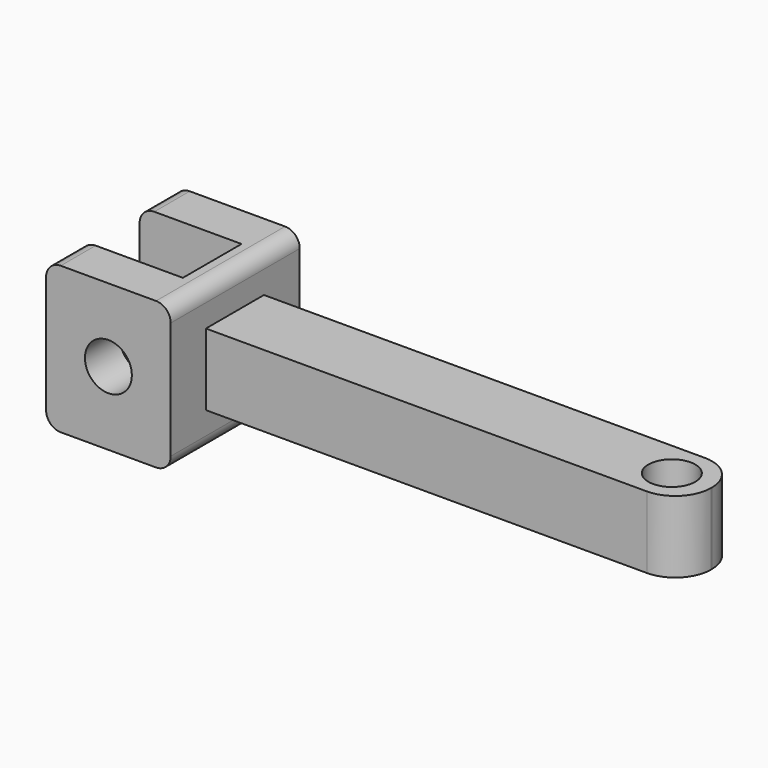
from build123d import *

# Parameters (mm, degrees)
F0_R      = 1.6
F1_DEPTH  = 2.45
F4_DEPTH  = 8
F6_R      = 1.6
F7_DEPTH  = 25
F8_DEPTH  = 11
F9_W      = 7.5
F9_H      = 2.5
F10_DEPTH = 14.29


with BuildPart() as f1:
    # F0 (on Top) → F1 (new body)
    with BuildSketch(Plane.XY):
        with BuildLine():
            Line((-6.325, -2.475), (13.825, -2.475))
            ThreePointArc((13.825, -2.475), (15.5397339444, -1.7647339444), (16.25, -0.05))
            Line((16.25, -0.05), (16.25, 0.05))
            ThreePointArc((16.25, 0.05), (15.5397339444, 1.7647339444), (13.825, 2.475))
            Line((13.825, 2.475), (-6.325, 2.475))
            Line((-6.325, 2.475), (-8.75, 2.475))
            Line((-8.75, 2.475), (-13.825, 2.475))
            Line((-13.825, 2.475), (-16.25, 2.475))
            Line((-16.25, 2.475), (-16.25, -2.475))
            Line((-16.25, -2.475), (-13.825, -2.475))
            Line((-13.825, -2.475), (-6.325, -2.475))
        make_face()
        with Locations((13.55, 0)):
            Circle(F0_R, mode=Mode.SUBTRACT)
    extrude(amount=F1_DEPTH)

    # F2: F1 across plane


with BuildPart() as f1_1:
    add(f1.part)
    add(f1.part.mirror(Plane.XY))

    # F3 (on face) → F4 (join)
    with BuildSketch(Plane.XZ.offset(2.475)):
        with BuildLine():
            Line((-24.75, 0), (-16.25, 0))
            Line((-16.25, 0), (-16.25, 2.45))
            Line((-16.25, 2.45), (-16.25, 4))
            ThreePointArc((-16.25, 4), (-16.5428932188, 4.7071067812), (-17.25, 5))
            Line((-17.25, 5), (-23.75, 5))
            ThreePointArc((-23.75, 5), (-24.4571067812, 4.7071067812), (-24.75, 4))
            Line((-24.75, 4), (-24.75, 0))
        make_face()
    extrude(amount=-F4_DEPTH)

    # F5: F1 across plane


with BuildPart() as f1_2:
    add(f1_1.part)
    add(f1_1.part.mirror(Plane.XY))

    # F6 (on face) → F7 (cut)
    with BuildSketch(Plane.XZ.offset(2.475)):
        with Locations((-20.5, 0)):
            Circle(F6_R)
    extrude(amount=-F7_DEPTH, mode=Mode.SUBTRACT)

    # F8 (add): a face of the model
    f8_faces = [f1_2.faces().sort_by_distance(p)[0] for p in [
        (-24.3643032252, 5.525, 4.6143032252),
    ]]
    extrude(f8_faces, amount=-F8_DEPTH)

    # F9 (on face) → F10 (cut)
    with BuildSketch(Plane(origin=(0, 0, -5), x_dir=(1, 0, 0), z_dir=(0, 0, -1))):
        with Locations((-21.55, 1.25)):
            Rectangle(F9_W, F9_H)
        with Locations((-21.55, -1.25)):
            Rectangle(F9_W, F9_H)
    extrude(amount=-F10_DEPTH, mode=Mode.SUBTRACT)


solid = f1_2.part
